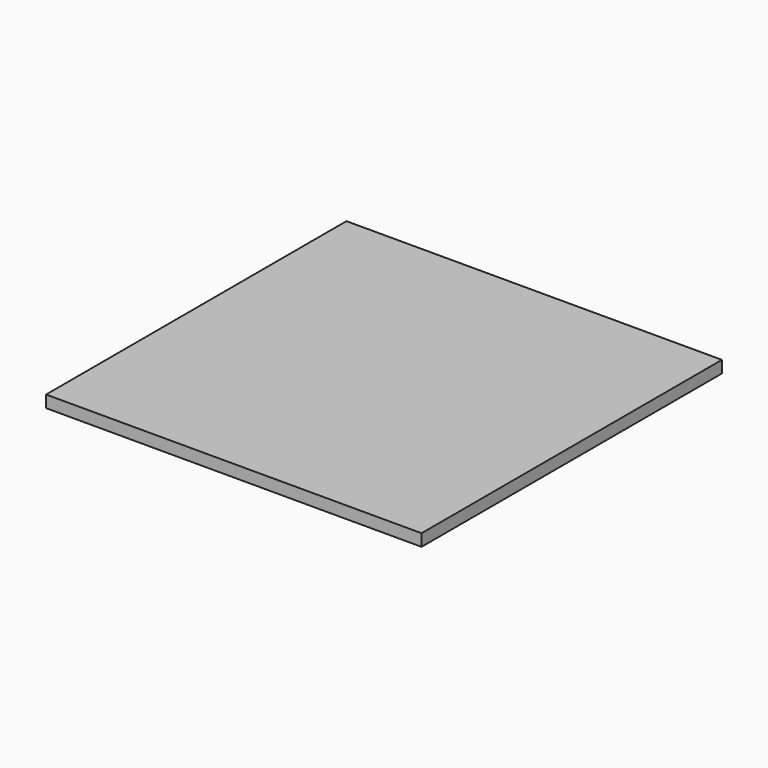
from build123d import *

# Parameters (mm, degrees)
F0_W     = 500
F0_H     = 500
F1_DEPTH = 16
F3_DEPTH = 8


with BuildPart() as f1:
    # F0 (on Top) → F1 (new body)
    with BuildSketch(Plane.XY):
        with Locations((10.604073, 66.22421)):
            Rectangle(F0_W, F0_H)
    extrude(amount=F1_DEPTH)

    # F2 (on face) → F3 (cut)
    with BuildSketch(Plane(origin=(0, 0, 0), x_dir=(1, 0, 0), z_dir=(0, 0, -1))):
        with BuildLine():
            Line((257.068539, 180.240256), (-235.860393, -312.688676))
            ThreePointArc((-235.860393, -312.688676), (-232.324859, -314.153142), (-228.789325, -312.688676))
            Line((-228.789325, -312.688676), (-157.948561, -241.847912))
            Line((-157.948561, -241.847912), (257.068539, 173.169188))
            ThreePointArc((257.068539, 173.169188), (258.533005, 176.704722), (257.068539, 180.240256))
        make_face()
        with BuildLine():
            ThreePointArc((-235.860393, -305.617608), (-237.324859, -309.153142), (-235.860393, -312.688676))
            Line((-235.860393, -312.688676), (257.068539, 180.240256))
            ThreePointArc((257.068539, 180.240256), (253.533005, 181.704722), (249.997471, 180.240256))
            Line((249.997471, 180.240256), (-235.860393, -305.617608))
        make_face()
    extrude(amount=-F3_DEPTH, mode=Mode.SUBTRACT)


solid = f1.part
